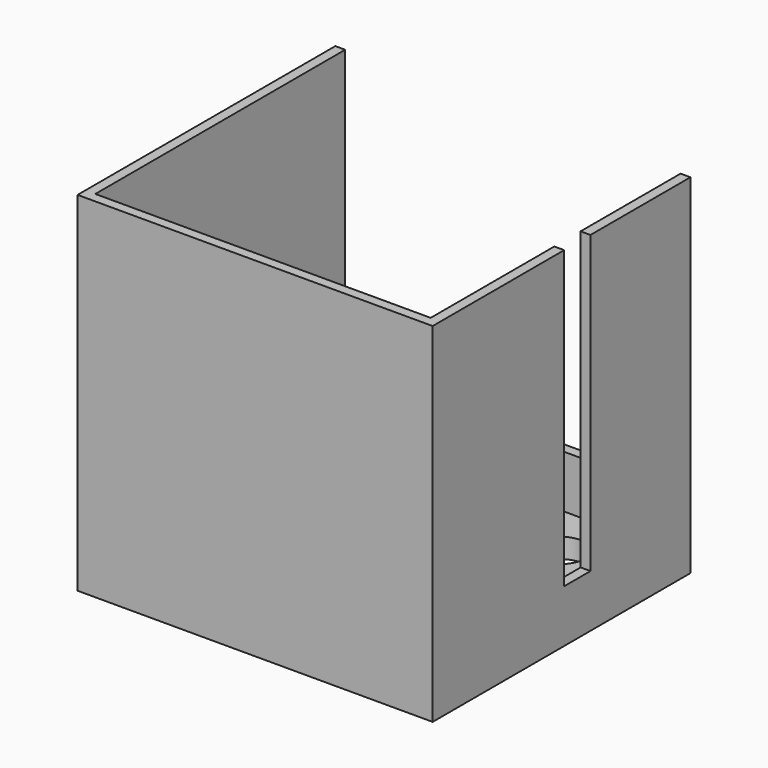
from build123d import *

# Parameters (mm, degrees)
SKETCH_W     = 54
SKETCH_H     = 49
SKETCH_R     = 3.5
SKETCH_R_2   = 4
PAD_DEPTH    = 3
PAD001_DEPTH = 50
SKETCH002_W  = 5
SKETCH002_H  = 45
POCKET_DEPTH = 1.5
SKETCH003_W  = 51
SKETCH003_H  = 1.5
PAD002_DEPTH = 8


with BuildPart() as part:
    # Sketch → Pad (new body)
    with BuildSketch(Plane.XY):
        with Locations((27, -24.5)):
            Rectangle(SKETCH_W, SKETCH_H)
        with Locations((12, -39.5)):
            Circle(SKETCH_R, mode=Mode.SUBTRACT)
        with Locations((42, -9.5)):
            Circle(SKETCH_R, mode=Mode.SUBTRACT)
        with Locations((12, -9.5)):
            Circle(SKETCH_R_2, mode=Mode.SUBTRACT)
        with Locations((42, -39.5)):
            Circle(SKETCH_R_2, mode=Mode.SUBTRACT)
    extrude(amount=PAD_DEPTH)

    # Sketch001 → Pad001 (new body)
    with BuildSketch(Plane.XY.offset(3)):
        Polygon((0, 0), (0, -49), (54, -49), (54, 0), (52.5, 0), (52.5, -47.5), (1.5, -47.5), (1.5, 0), align=None)
    extrude(amount=PAD001_DEPTH)

    # Sketch002 → Pocket (cut)
    with BuildSketch(Plane.YZ.offset(54)):
        with Locations((-21.5, 30.5)):
            Rectangle(SKETCH002_W, SKETCH002_H)
    extrude(amount=-POCKET_DEPTH, mode=Mode.SUBTRACT)

    # Sketch003 → Pad002 (new body)
    with BuildSketch(Plane.XY.offset(3)):
        with Locations((27, -0.75)):
            Rectangle(SKETCH003_W, SKETCH003_H)
    extrude(amount=PAD002_DEPTH)


solid = part.part
